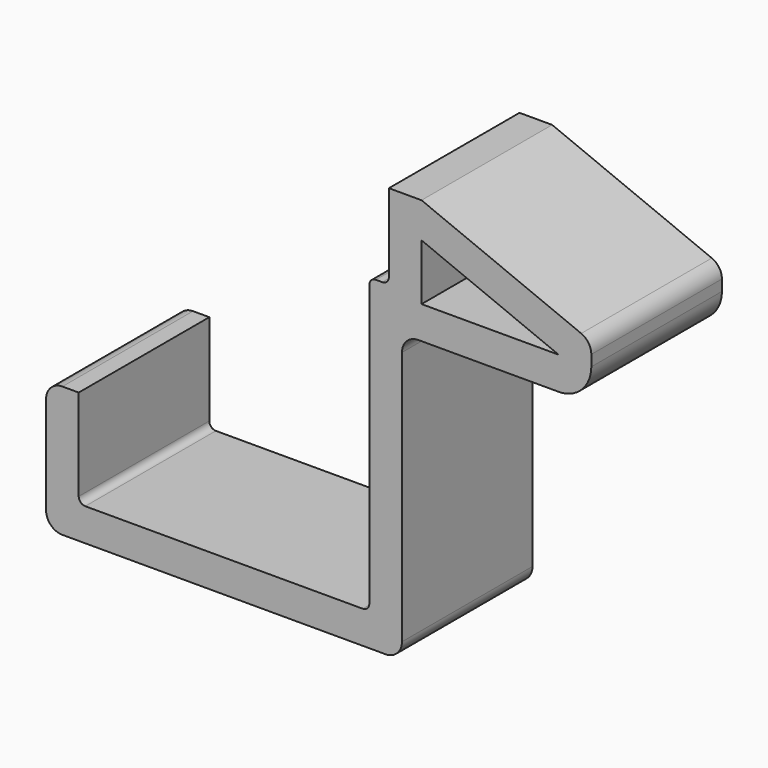
from build123d import *

# Parameters (mm, degrees)
F1_DEPTH = 12.5
F2_R     = 5
F3_R     = 2.5
F4_R     = 1


with BuildPart() as f1:
    # F0 (on Front) → F1 (new body, symmetric)
    with BuildSketch(Plane.XZ):
        Polygon((0, 0), (-44.5, 0), (-44.5, 15), (-49.5, 15), (-49.5, -5), (-44.5, -5), (0, -5), (5, -5), (5, 39), (34, 39), (34, 47.355823), (8, 58), (3, 58), (3, 45), (0, 45), align=None)
        Polygon((29, 44), (8, 44), (8, 52.59722), align=None, mode=Mode.SUBTRACT)
    extrude(amount=F1_DEPTH, both=True)

    # F2
    f2_edges = [f1.edges().sort_by_distance(p)[0] for p in [
        (34, 0, 39),
    ]]
    fillet(f2_edges, radius=F2_R)

    # F3
    f3_edges = [f1.edges().sort_by_distance(p)[0] for p in [
        (5, 0, -5),
        (-49.5, 0, -5),
        (-49.5, 0, 15),
        (34, 0, 47.355823),
        (5, 0, 39),
    ]]
    fillet(f3_edges, radius=F3_R)

    # F4
    f4_edges = [f1.edges().sort_by_distance(p)[0] for p in [
        (3, 0, 45),
        (0, 0, 45),
        (0, 0, 0),
        (-44.5, 0, 0),
    ]]
    fillet(f4_edges, radius=F4_R)


solid = f1.part
